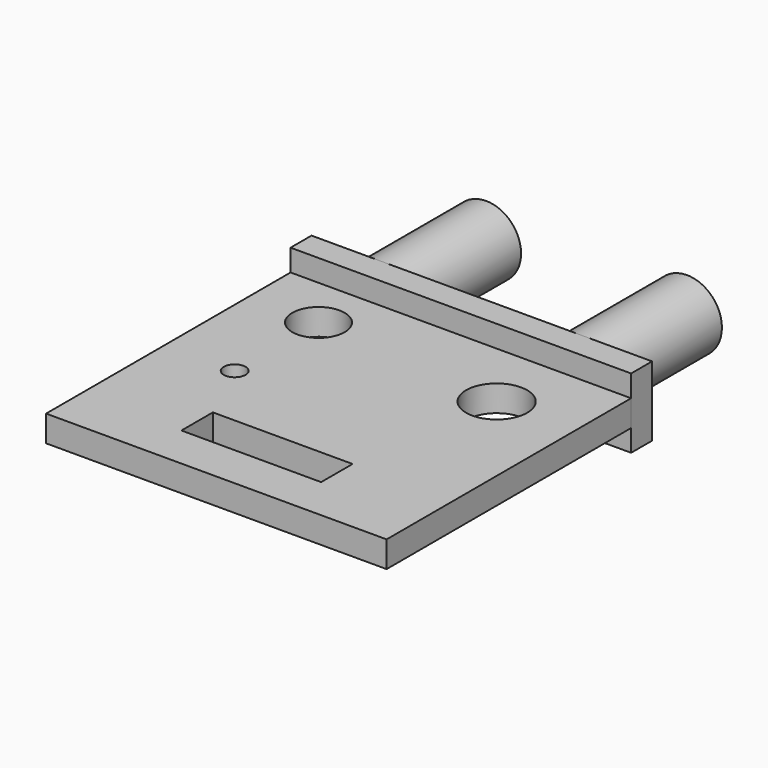
from build123d import *

# Parameters (mm, degrees)
BOX_W                  = 39
BOX_H                  = 3
BOX_DEPTH              = 8
CYLINDER_R             = 4
CYLINDER_DEPTH         = 15
CYLINDER_ROLL_ANGLE    = 90
CYLINDER001_R          = 4
CYLINDER001_DEPTH      = 15
CYLINDER001_ROLL_ANGLE = 90
CYLINDER003_R          = 3
CYLINDER003_DEPTH      = 3
CYLINDER002_R          = 3.5
CYLINDER002_DEPTH      = 3
BOX002_W               = 16
BOX002_H               = 4.5
BOX002_DEPTH           = 3
CYLINDER004_R          = 1.25
CYLINDER004_DEPTH      = 3
BOX001_W               = 39
BOX001_H               = 35
BOX001_DEPTH           = 3


with BuildPart() as base:
    # Box → Box (new body)
    with BuildSketch(Plane(origin=(-8, -18, -4), x_dir=(1, 0, 0), z_dir=(0, 0, 1))):
        with Locations((19.5, 1.5)):
            Rectangle(BOX_W, BOX_H)
    extrude(amount=BOX_DEPTH)


with BuildPart() as pin2:
    # Cylinder → Cylinder (new body)
    with BuildSketch(Plane.XY):
        Circle(CYLINDER_R)
    extrude(amount=CYLINDER_DEPTH)


with BuildPart() as pin2_1:
    # Cylinder roll: moved
    add(pin2.part.rotate(Axis((0, 0, 0), (1, 0, 0)), CYLINDER_ROLL_ANGLE))


with BuildPart() as pin2_2:
    # Cylinder placement: moved
    add(pin2_1.part.moved(Location((23, 0, 0))))


with BuildPart() as pin1:
    # Cylinder001 → Cylinder001 (new body)
    with BuildSketch(Plane.XY):
        Circle(CYLINDER001_R)
    extrude(amount=CYLINDER001_DEPTH)


with BuildPart() as pin1_1:
    # Cylinder001 roll: moved
    add(pin1.part.rotate(Axis((0, 0, 0), (1, 0, 0)), CYLINDER001_ROLL_ANGLE))


with BuildPart() as pin1_2:
    # Cylinder001 placement: moved
    add(pin1_1.part)


with BuildPart() as cut2:
    # Cylinder003 → Cylinder003 (new body)
    with BuildSketch(Plane(origin=(0, -24, -1.5), x_dir=(1, 0, 0), z_dir=(0, 0, 1))):
        Circle(CYLINDER003_R)
    extrude(amount=CYLINDER003_DEPTH)


with BuildPart() as cut1:
    # Cylinder002 → Cylinder002 (new body)
    with BuildSketch(Plane(origin=(22, -26, -1.5), x_dir=(1, 0, 0), z_dir=(0, 0, 1))):
        Circle(CYLINDER002_R)
    extrude(amount=CYLINDER002_DEPTH)


with BuildPart() as cut4:
    # Box002 → Box002 (new body)
    with BuildSketch(Plane(origin=(3.5, -48, -1.5), x_dir=(1, 0, 0), z_dir=(0, 0, 1))):
        with Locations((8, 2.25)):
            Rectangle(BOX002_W, BOX002_H)
    extrude(amount=BOX002_DEPTH)


with BuildPart() as cuts:
    # Cylinder004 → Cylinder004 (new body)
    with BuildSketch(Plane(origin=(0, -36, -1.5), x_dir=(1, 0, 0), z_dir=(0, 0, 1))):
        Circle(CYLINDER004_R)
    extrude(amount=CYLINDER004_DEPTH)

    # Fusion: union Cut2, Cut1, Cut4
    add(cut2.part)
    add(cut1.part)
    add(cut4.part)


with BuildPart() as cut:
    # Box001 → Box001 (new body)
    with BuildSketch(Plane(origin=(-8, -53, -1.5), x_dir=(1, 0, 0), z_dir=(0, 0, 1))):
        with Locations((19.5, 17.5)):
            Rectangle(BOX001_W, BOX001_H)
    extrude(amount=BOX001_DEPTH)

    # Cut: cut cuts
    add(cuts.part, mode=Mode.SUBTRACT)


solid = Compound([base.part, pin2_2.part, pin1_2.part, cut.part])
